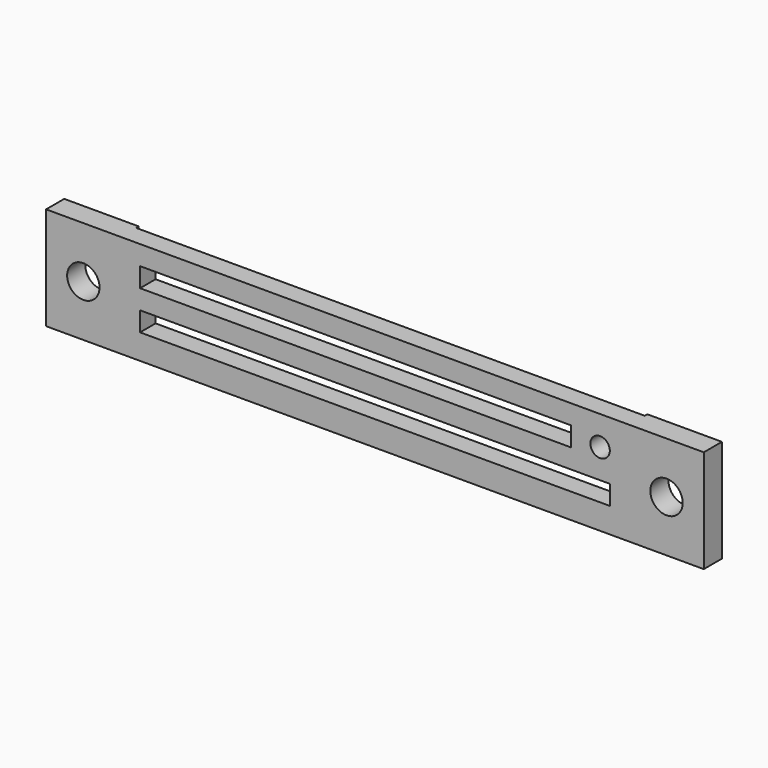
from build123d import *

# Parameters (mm, degrees)
F0_W     = 101.5
F0_H     = 15.875
F0_W_2   = 72.5
F0_H_2   = 3
F0_W_3   = 66.5
F0_R     = 1.5
F1_DEPTH = 3.5
F2_W     = 78.5
F2_H     = 15.875
F3_DEPTH = 0.5
F4_R     = 2.5
F5_DEPTH = 25


with BuildPart() as f1:
    # F0 (on Front) → F1 (new body)
    with BuildSketch(Plane.XZ):
        Rectangle(F0_W, F0_H)
        with Locations((0, -2.5625)):
            Rectangle(F0_W_2, F0_H_2, mode=Mode.SUBTRACT)
        with Locations((-3, 3.4375)):
            Rectangle(F0_W_3, F0_H_2, mode=Mode.SUBTRACT)
        with Locations((34.75, 3.4375)):
            Circle(F0_R, mode=Mode.SUBTRACT)
    extrude(amount=F1_DEPTH)

    # F2 (on face) → F3 (cut)
    with BuildSketch(Plane(origin=(0, 0, 0), x_dir=(-1, 0, 0), z_dir=(0, 1, 0))):
        Rectangle(F2_W, F2_H)
    extrude(amount=-F3_DEPTH, mode=Mode.SUBTRACT)

    # F4 (on face) → F5 (cut)
    with BuildSketch(Plane.XZ.offset(3.5)):
        with Locations((-45, 0)):
            Circle(F4_R)
        with Locations((45, 0)):
            Circle(F4_R)
    extrude(amount=-F5_DEPTH, mode=Mode.SUBTRACT)


solid = f1.part
